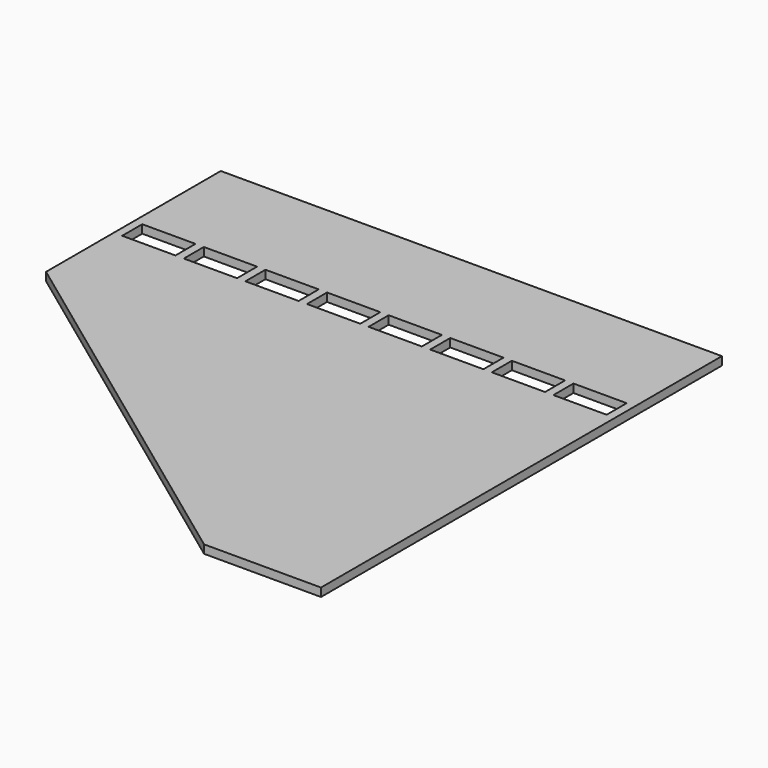
from build123d import *

# Parameters (mm, degrees)
F0_W     = 60
F0_H     = 60
F1_DEPTH = 1
F4_DEPTH = 1
F5_DEPTH = 29
F6_W     = 1
F6_H     = 1


with BuildPart() as f1:
    # F0 (on Top) → F1 (new body)
    with BuildSketch(Plane.XY):
        Rectangle(F0_W, F0_H)
    extrude(amount=F1_DEPTH)

    # F3 (on face) → F4 (cut, through all)
    with BuildSketch(Plane.XY.offset(1)):
        Polygon((-30, -30), (16, -30), (-30, 3.8595641273), align=None)
    extrude(amount=-F4_DEPTH, mode=Mode.SUBTRACT)

    # F2 (on Right) → F5 (cut, symmetric)
    with BuildSketch(Plane.YZ):
        Polygon((11.2525225805, 0), (17, 0), (17, 1), (14, 1), align=None)
    extrude(amount=F5_DEPTH, both=True, mode=Mode.SUBTRACT)

    # F6 (on face) → F7 (join, up to the next surface of F1)
    with BuildSketch(Plane.XZ.offset(-17)):
        with Locations((-22.125, 0.5)):
            Rectangle(F6_W, F6_H)
        with Locations((-14.75, 0.5)):
            Rectangle(F6_W, F6_H)
        with Locations((-7.375, 0.5)):
            Rectangle(F6_W, F6_H)
        with Locations((0, 0.5)):
            Rectangle(F6_W, F6_H)
        with Locations((7.375, 0.5)):
            Rectangle(F6_W, F6_H)
        with Locations((14.75, 0.5)):
            Rectangle(F6_W, F6_H)
        with Locations((22.125, 0.5)):
            Rectangle(F6_W, F6_H)
    extrude(until=Until.NEXT)


solid = f1.part
